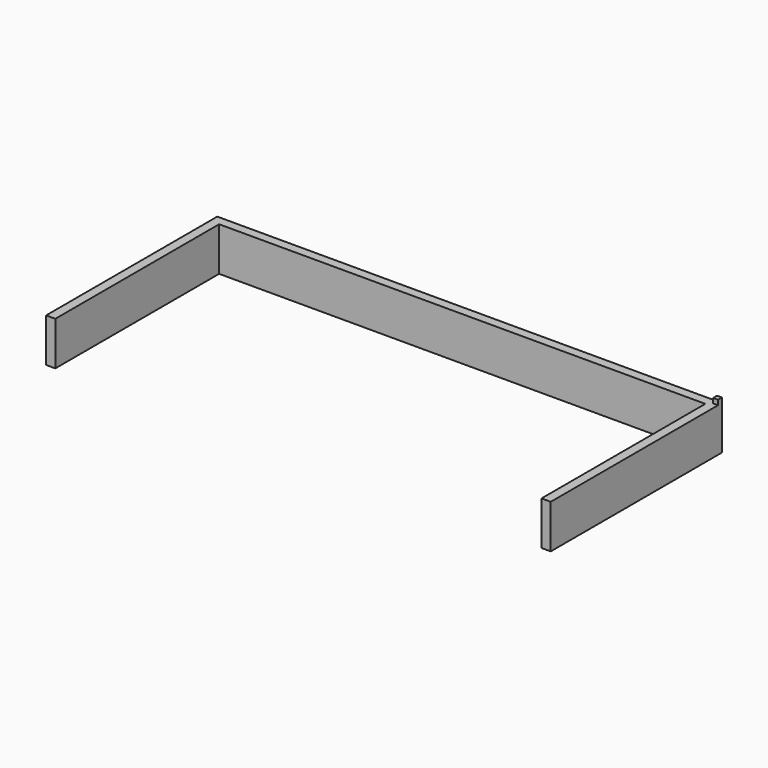
from build123d import *

# Parameters (mm, degrees)
F1_DEPTH = 90
F2_W     = 10
F2_H     = 10
F3_DEPTH = 10


with BuildPart() as f1:
    # F0 (on Top) → F1 (new body)
    with BuildSketch(Plane.XY):
        Polygon((-19, 89), (0, 89), (0, 530), (-1040, 530), (-1040, 89), (-1021, 89), (-1021, 511), (-19, 511), align=None)
    extrude(amount=-F1_DEPTH)

    # F2 (on Top) → F3 (join)
    with BuildSketch(Plane.XY):
        with Locations((-5, 525)):
            Rectangle(F2_W, F2_H)
    extrude(amount=F3_DEPTH)


solid = f1.part
